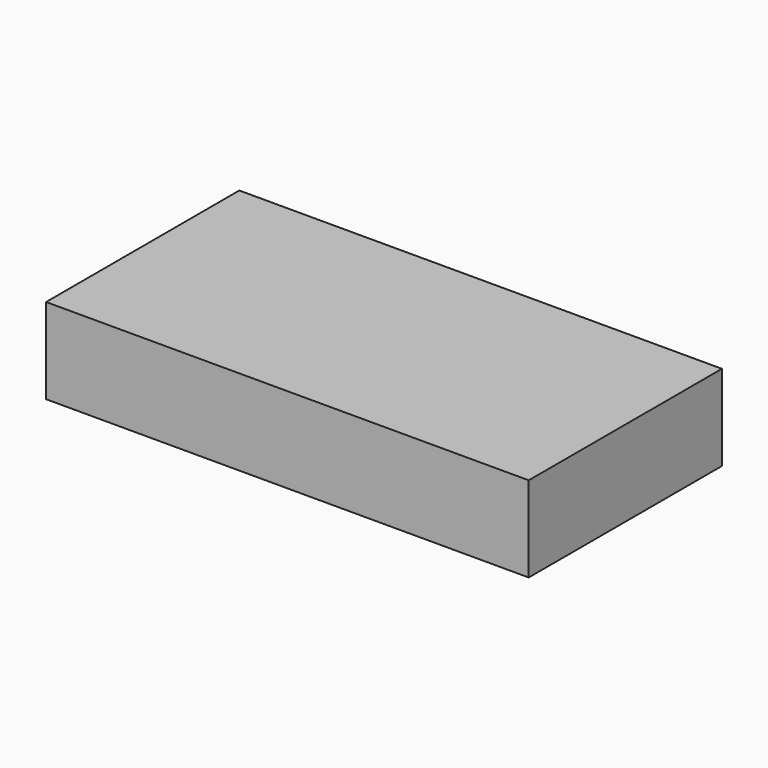
from build123d import *

# Parameters (mm, degrees)
F0_W     = 140.9761607647
F0_H     = 70.5401301384
F1_DEPTH = 10
F2_DEPTH = 8.5
F3_DEPTH = 25


with BuildPart() as f1:
    # F0 (on Top) → F1 (new body)
    with BuildSketch(Plane.XY):
        with Locations((0.2849400043, 35.2700650692)):
            Rectangle(F0_W, F0_H)
    extrude(amount=F1_DEPTH)

    # F2 (add): a face of the model
    f2_faces = [f1.faces().sort_by_distance(p)[0] for p in [
        (0.2849400043, 35.2700650692, 10),
    ]]
    extrude(f2_faces, amount=F2_DEPTH)

    # F3 (add): a face of the model
    f3_faces = [f1.faces().sort_by_distance(p)[0] for p in [
        (0.2849400043, 35.2700650692, 18.5),
    ]]
    extrude(f3_faces, amount=-F3_DEPTH)


solid = f1.part
